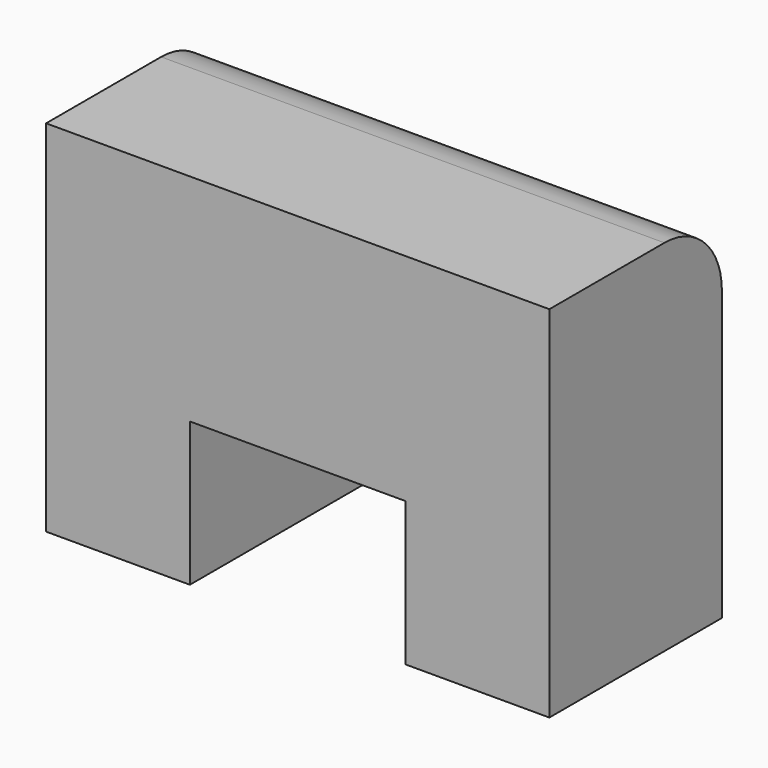
from build123d import *

# Parameters (mm, degrees)
BOX022_W     = 3
BOX022_H     = 3
BOX022_DEPTH = 2
BOX021_W     = 7
BOX021_H     = 3
BOX021_DEPTH = 5
FILLET_R     = 1
FILLET001_R  = 1


with BuildPart() as cube022:
    # Box022 → Box022 (new body)
    with BuildSketch(Plane(origin=(13, 7, 0), x_dir=(1, 0, 0), z_dir=(0, 0, 1))):
        with Locations((1.5, 1.5)):
            Rectangle(BOX022_W, BOX022_H)
    extrude(amount=BOX022_DEPTH)


with BuildPart() as fillet001:
    # Box021 → Box021 (new body)
    with BuildSketch(Plane(origin=(11, 7, 0), x_dir=(1, 0, 0), z_dir=(0, 0, 1))):
        with Locations((3.5, 1.5)):
            Rectangle(BOX021_W, BOX021_H)
    extrude(amount=BOX021_DEPTH)

    # Cut002: cut Cube022
    add(cube022.part, mode=Mode.SUBTRACT)

    # Fillet
    fillet_edges = [fillet001.edges().sort_by_distance(p)[0] for p in [
        (14.5, 10, 2),
    ]]
    fillet(fillet_edges, radius=FILLET_R)


with BuildPart() as fillet001_1:
    # Fillet placement: moved
    add(fillet001.part.moved(Location((-1, 0, 0))))

    # Fillet001
    fillet001_edges = [fillet001_1.edges().sort_by_distance(p)[0] for p in [
        (13.5, 10, 5),
    ]]
    fillet(fillet001_edges, radius=FILLET001_R)


with BuildPart() as fillet001_2:
    # Fillet001 placement: moved
    add(fillet001_1.part.moved(Location((-1, 0, 0))))


solid = fillet001_2.part
